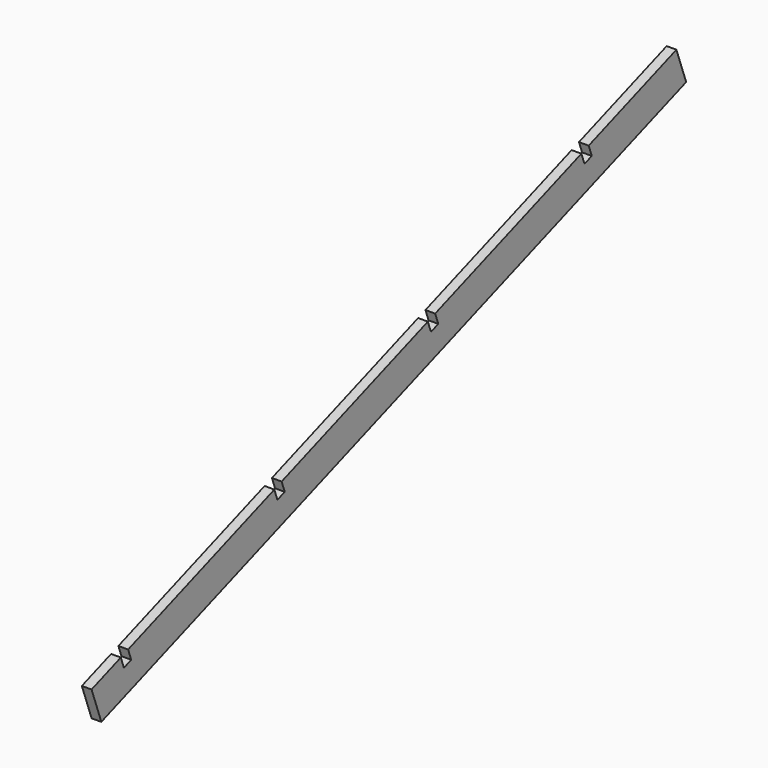
from build123d import *

# Parameters (mm, degrees)
BOX012_W               = 38.1
BOX012_H               = 3048
BOX012_DEPTH           = 139.7
BOX012_ROLL_ANGLE      = 20
SKETCH031_W            = 38.1
SKETCH031_H            = 44.45
POCKET022_DEPTH        = 38.1010000019
LINEARPATTERN002_COUNT = 4
LINEARPATTERN002_PITCH = 800.1


with BuildPart() as linearpattern002:
    # Box012 → Box012 (new body)
    with BuildSketch(Plane.XY):
        with Locations((19.05, 1524)):
            Rectangle(BOX012_W, BOX012_H)
    extrude(amount=BOX012_DEPTH)


with BuildPart() as linearpattern002_1:
    # Box012 roll: moved
    add(linearpattern002.part.rotate(Axis((0, 0, 0), (1, 0, 0)), BOX012_ROLL_ANGLE))


with BuildPart() as linearpattern002_2:
    # Box012 placement: moved
    add(linearpattern002_1.part.moved(Location((0, -431.8, 1376.68))))

    # Sketch031 → Pocket022 (cut, through all)
    with BuildSketch(Plane(origin=(0, -431.8, 1376.68), x_dir=(0, -0.9396926208, -0.3420201433), z_dir=(-1, 0, 0))):
        with Locations((-171.45, 117.475)):
            Rectangle(SKETCH031_W, SKETCH031_H)
    pocket022 = extrude(amount=-POCKET022_DEPTH, mode=Mode.SUBTRACT)

    # LinearPattern002: Pocket022 ×4
    with Locations(*[Vector(0, 0.9396926208, 0.3420201433) * (i * LINEARPATTERN002_PITCH) for i in range(1, LINEARPATTERN002_COUNT)]):
        add(pocket022, mode=Mode.SUBTRACT)


with BuildPart() as part_mirroring005:
    # Part__Mirroring005: instance of LinearPattern002
    add(linearpattern002_2.part.mirror(Plane(origin=(762, 0, 0), x_dir=(0, -1, 0), z_dir=(1, 0, 0))))


solid = part_mirroring005.part
